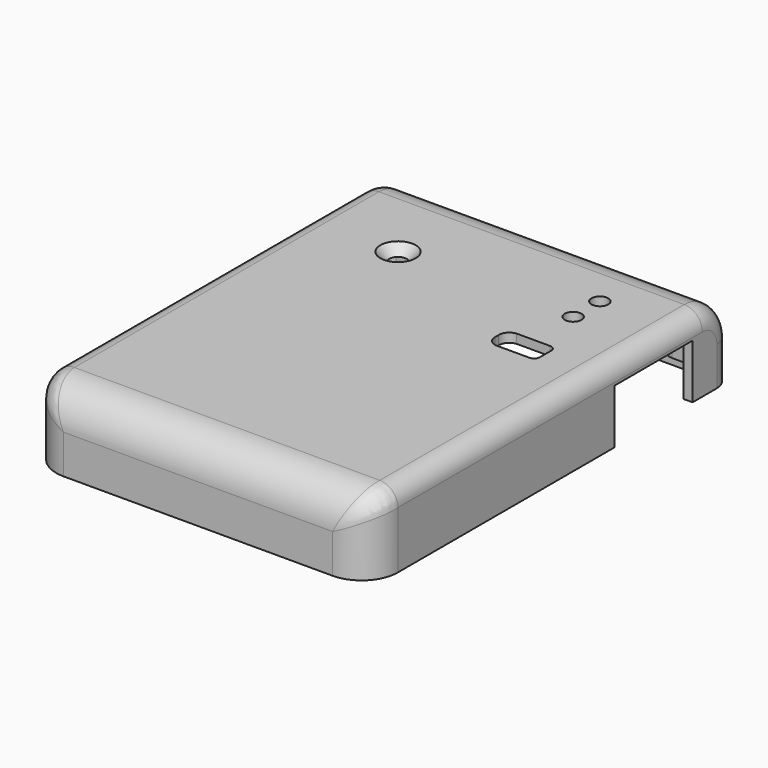
from build123d import *

# Parameters (mm, degrees)
SKETCH_W        = 75.4
SKETCH_H        = 100
PAD_DEPTH       = 16.6
SKETCH005_W     = 71.4
SKETCH005_H     = 96
POCKET_DEPTH    = 14.6
SKETCH006_W     = 21.6
SKETCH006_H     = 12
POCKET001_DEPTH = 2
SKETCH007_W     = 21.6
SKETCH007_H     = 12
POCKET002_DEPTH = 2
SKETCH008_W     = 7.6
SKETCH008_H     = 8.2
POCKET003_DEPTH = 2
SKETCH009_R     = 1.85
POCKET004_DEPTH = 2
SKETCH010_R     = 3.9
POCKET005_DEPTH = 2
POCKET005_TAPER = 45
SKETCH011_W     = 15
SKETCH011_H     = 2
PAD005_DEPTH    = 14.6
SKETCH012_R     = 0.9
PAD006_DEPTH    = 8.6
SKETCH013_R     = 0.9
PAD007_DEPTH    = 10.4
FILLET_R        = 2
FILLET001_R     = 4
FILLET002_R     = 1
FILLET003_R     = 6
FILLET004_R     = 8
FILLET005_R     = 4


with BuildPart() as part:
    # Sketch → Pad (new body)
    with BuildSketch(Plane.XY):
        with Locations((0, -28.5)):
            Rectangle(SKETCH_W, SKETCH_H)
    extrude(amount=PAD_DEPTH)

    # Sketch005 (on Face5 of Pad) → Pocket (cut)
    with BuildSketch(Plane(origin=(0, 0, 0), x_dir=(1, 0, 0), z_dir=(0, 0, -1))):
        with Locations((0, 28.5)):
            Rectangle(SKETCH005_W, SKETCH005_H)
    extrude(amount=-POCKET_DEPTH, mode=Mode.SUBTRACT)

    # Sketch006 (on Face3 of Pocket) → Pocket001 (cut)
    with BuildSketch(Plane.YZ.offset(37.7)):
        with Locations((0, 6)):
            Rectangle(SKETCH006_W, SKETCH006_H)
    extrude(amount=-POCKET001_DEPTH, mode=Mode.SUBTRACT)

    # Sketch007 (on Face2 of Pocket) → Pocket002 (cut)
    with BuildSketch(Plane(origin=(-37.7, 0, 0), x_dir=(0, -1, 0), z_dir=(-1, 0, 0))):
        with Locations((0, 6)):
            Rectangle(SKETCH007_W, SKETCH007_H)
    extrude(amount=-POCKET002_DEPTH, mode=Mode.SUBTRACT)

    # Sketch008 (on Face1 of Pocket) → Pocket003 (cut)
    with BuildSketch(Plane(origin=(0, 21.5, 0), x_dir=(-1, 0, 0), z_dir=(0, 1, 0))):
        with Locations((22, 4.1)):
            Rectangle(SKETCH008_W, SKETCH008_H)
    extrude(amount=-POCKET003_DEPTH, mode=Mode.SUBTRACT)

    # Sketch009 (on Face5 of Pocket) → Pocket004 (cut)
    with BuildSketch(Plane.XY.offset(16.6)):
        with Locations((21.601854, -2.031842)):
            Circle(SKETCH009_R)
        with Locations((21.597205, 5.352823)):
            Circle(SKETCH009_R)
        with BuildLine():
            Line((15.825713, -15.337742), (15.825713, -16.321696))
            ThreePointArc((15.825713, -16.321696), (16.397859, -17.902616), (17.897046, -18.663599))
            Line((17.897046, -18.663599), (25.282393, -18.663599))
            ThreePointArc((25.282393, -18.663599), (26.185781, -18.272491), (26.544973, -17.355945))
            Line((26.544973, -14.219638), (26.544973, -17.355945))
            ThreePointArc((26.544973, -14.219638), (26.159832, -13.349897), (25.274241, -13.00275))
            Line((17.921865, -13.00275), (25.274241, -13.00275))
            ThreePointArc((17.921865, -13.00275), (16.411472, -13.755218), (15.825713, -15.337742))
        make_face()
    extrude(amount=-POCKET004_DEPTH, mode=Mode.SUBTRACT)

    # Sketch010 (on Face5 of Pocket) → Pocket005 (cut)
    with BuildSketch(Plane.XY.offset(16.6)):
        with Locations((-17.145816, -1.900756)):
            Circle(SKETCH010_R)
    extrude(amount=-POCKET005_DEPTH, taper=POCKET005_TAPER, mode=Mode.SUBTRACT)

    # Sketch011 (on Face11 of Pocket) → Pad005 (join)
    with BuildSketch(Plane(origin=(0, 0, 14.6), x_dir=(1, 0, 0), z_dir=(0, 0, -1))):
        with Locations((-28.2, 47.5)):
            Rectangle(SKETCH011_W, SKETCH011_H)
        with Locations((-28.2, 20.5)):
            Rectangle(SKETCH011_W, SKETCH011_H)
        with Locations((28.2, 47.5)):
            Rectangle(SKETCH011_W, SKETCH011_H)
        with Locations((28.2, 20.5)):
            Rectangle(SKETCH011_W, SKETCH011_H)
    extrude(amount=PAD005_DEPTH)

    # Sketch012 (on Face11 of Pocket) → Pad006 (join)
    with BuildSketch(Plane(origin=(0, 0, 14.6), x_dir=(1, 0, 0), z_dir=(0, 0, -1))):
        with BuildLine():
            Line((-35.7, -12.5), (-31.85, -12.5))
            ThreePointArc((-28.85, -15.5), (-29.72868, -13.37868), (-31.85, -12.5))
            Line((-28.85, -19.5), (-28.85, -15.5))
            Line((-28.85, -19.5), (-35.7, -19.5))
            Line((-35.7, -12.5), (-35.7, -19.5))
        make_face()
        with Locations((-31.85, -15.5)):
            Circle(SKETCH012_R, mode=Mode.SUBTRACT)
        with BuildLine():
            Line((28.85, -19.5), (28.85, -15.5))
            ThreePointArc((31.85, -12.5), (29.72868, -13.37868), (28.85, -15.5))
            Line((35.7, -12.5), (31.85, -12.5))
            Line((35.7, -12.5), (35.7, -19.5))
            Line((28.85, -19.5), (35.7, -19.5))
        make_face()
        with Locations((31.85, -15.5)):
            Circle(SKETCH012_R, mode=Mode.SUBTRACT)
        with BuildLine():
            Line((-35.7, 12.5), (-35.7, 19.5))
            Line((-35.7, 19.5), (-28.85, 19.5))
            Line((-28.85, 19.5), (-28.85, 15.5))
            ThreePointArc((-31.85, 12.5), (-29.72868, 13.37868), (-28.85, 15.5))
            Line((-35.7, 12.5), (-31.85, 12.5))
        make_face()
        with Locations((-31.85, 15.5)):
            Circle(SKETCH012_R, mode=Mode.SUBTRACT)
        with BuildLine():
            Line((31.85, 12.5), (35.7, 12.5))
            Line((35.7, 12.5), (35.7, 19.5))
            Line((35.7, 19.5), (28.85, 19.5))
            Line((28.85, 19.5), (28.85, 15.5))
            ThreePointArc((28.85, 15.5), (29.72868, 13.37868), (31.85, 12.5))
        make_face()
        with Locations((31.85, 15.5)):
            Circle(SKETCH012_R, mode=Mode.SUBTRACT)
    extrude(amount=PAD006_DEPTH)

    # Sketch013 (on Face11 of Pocket) → Pad007 (join)
    with BuildSketch(Plane(origin=(0, 0, 14.6), x_dir=(1, 0, 0), z_dir=(0, 0, -1))):
        with BuildLine():
            Line((-35.7, 76.5), (-29.35, 76.5))
            Line((-29.35, 76.5), (-29.35, 72.5))
            ThreePointArc((-31.85, 70), (-30.082233, 70.732233), (-29.35, 72.5))
            Line((-35.7, 70), (-31.85, 70))
            Line((-35.7, 76.5), (-35.7, 70))
        make_face()
        with Locations((-31.85, 72.5)):
            Circle(SKETCH013_R, mode=Mode.SUBTRACT)
        with BuildLine():
            Line((35.7, 76.5), (35.7, 70))
            Line((35.7, 70), (31.85, 70))
            ThreePointArc((29.35, 72.5), (30.082233, 70.732233), (31.85, 70))
            Line((29.35, 76.5), (29.35, 72.5))
            Line((35.7, 76.5), (29.35, 76.5))
        make_face()
        with Locations((31.85, 72.5)):
            Circle(SKETCH013_R, mode=Mode.SUBTRACT)
    extrude(amount=PAD007_DEPTH)

    # Fillet
    fillet_edges = [part.edges().sort_by_distance(p)[0] for p in [
        (-35.7, 0, 14.6),
        (-35.7, -34, 14.6),
        (-35.7, -59.25, 14.6),
        (35.7, -59.25, 14.6),
        (35.7, -34, 14.6),
        (35.7, 0, 14.6),
    ]]
    fillet(fillet_edges, radius=FILLET_R)

    # Fillet001
    fillet001_edges = [part.edges().sort_by_distance(p)[0] for p in [
        (0, 19.5, 14.6),
        (0, -76.5, 14.6),
    ]]
    fillet(fillet001_edges, radius=FILLET001_R)

    # Fillet002
    fillet002_edges = [part.edges().sort_by_distance(p)[0] for p in [
        (-35.7, 19.5, 3),
        (35.7, 19.5, 3),
    ]]
    fillet(fillet002_edges, radius=FILLET002_R)

    # Fillet003
    fillet003_edges = [part.edges().sort_by_distance(p)[0] for p in [
        (-35.7, -76.5, 2.1),
        (35.7, -76.5, 2.1),
    ]]
    fillet(fillet003_edges, radius=FILLET003_R)

    # Fillet004
    fillet004_edges = [part.edges().sort_by_distance(p)[0] for p in [
        (37.7, -78.5, 8.3),
        (0, -78.5, 16.6),
        (-37.7, -78.5, 8.3),
        (0, 21.5, 16.6),
    ]]
    fillet(fillet004_edges, radius=FILLET004_R)

    # Fillet005
    fillet005_edges = [part.edges().sort_by_distance(p)[0] for p in [
        (37.7, -28.5, 16.6),
        (37.7, 21.5, 4.3),
        (37.7, 19.156854, 14.256854),
        (-37.7, 21.5, 4.3),
        (-37.7, 19.156854, 14.256854),
        (-37.7, -28.5, 16.6),
        (-34.868391, -76.606368, 13.768391),
        (34.868391, -76.606368, 13.768391),
    ]]
    fillet(fillet005_edges, radius=FILLET005_R)


with BuildPart() as part_1:
    # Body placement: moved
    add(part.part.moved(Location((0, 0, -2))))


solid = part_1.part
